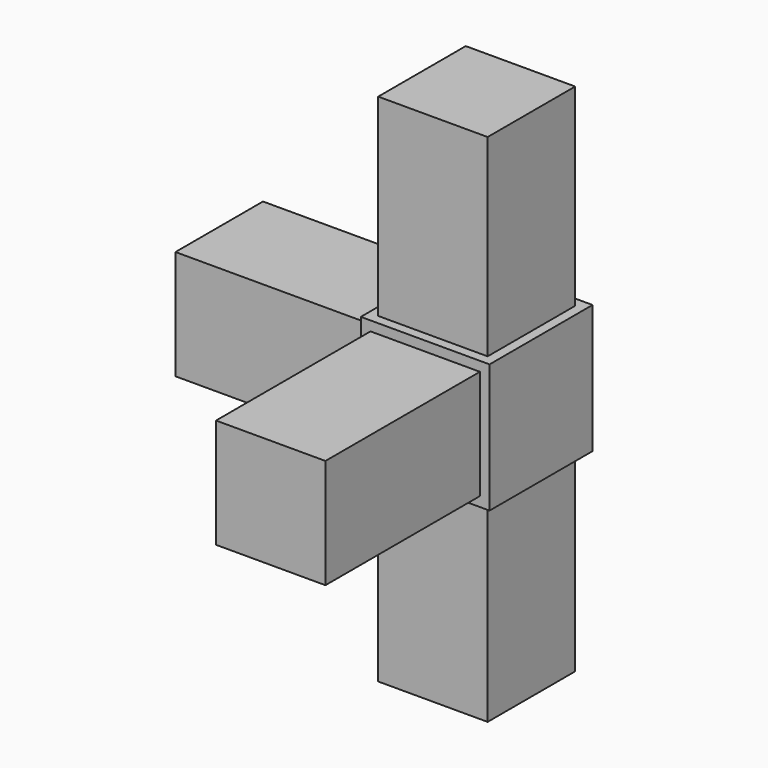
from build123d import *

# Parameters (mm, degrees)
F1_DEPTH = 20
F2_START = 1.5
F2_DEPTH = 17
F3_W     = 17
F3_H     = 17
F4_DEPTH = 30
F5_W     = 17
F5_H     = 17
F6_DEPTH = 30


with BuildPart() as f1:
    # F0 (on Top) → F1 (new body)
    with BuildSketch(Plane.XY):
        Polygon((8.5, -10), (10, -10), (10, 10), (-10, 10), (-10, 8.5), (-10, 0), (-10, -8.5), (-10, -10), (-8.5, -10), (0, -10), align=None)
    extrude(amount=F1_DEPTH)

    # F0 (on Top) → F2 (join)
    with BuildSketch(Plane.XY.offset(F2_START)):
        Polygon((-10, 0), (-10, 8.5), (-40, 8.5), (-40, -8.5), (-10, -8.5), align=None)
        Polygon((8.5, -40), (8.5, -10), (0, -10), (-8.5, -10), (-8.5, -40), align=None)
    extrude(amount=F2_DEPTH)

    # F3 (on face) → F4 (join)
    with BuildSketch(Plane.XY.offset(20)):
        Rectangle(F3_W, F3_H)
    extrude(amount=F4_DEPTH)

    # F5 (on face) → F6 (join)
    with BuildSketch(Plane(origin=(0, 0, 0), x_dir=(1, 0, 0), z_dir=(0, 0, -1))):
        Rectangle(F5_W, F5_H)
    extrude(amount=F6_DEPTH)


solid = f1.part
